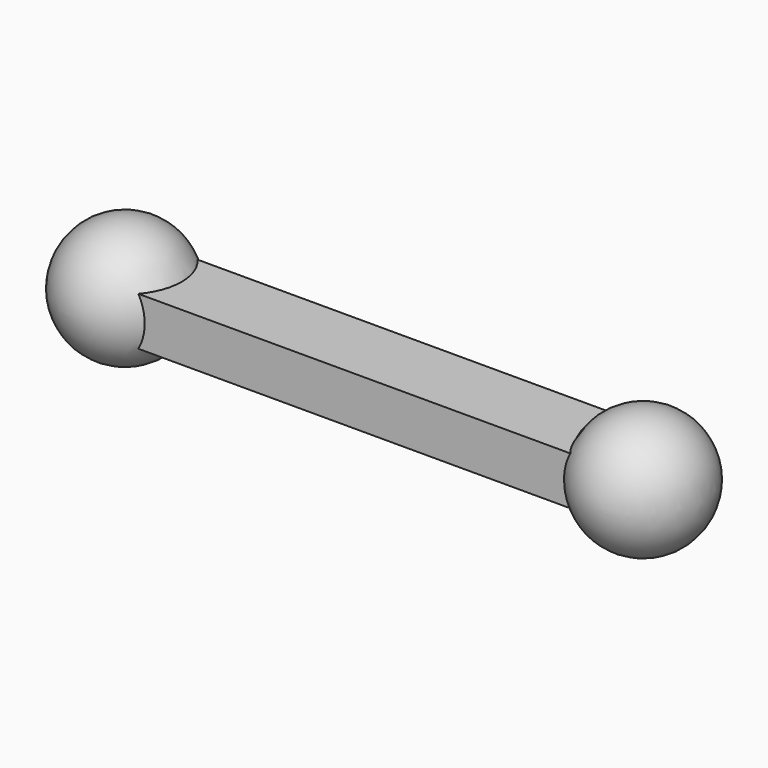
from build123d import *

# Parameters (mm, degrees)
PAD_DEPTH = 0.245


with BuildPart() as part:
    # Sketch → Pad (new body, symmetric)
    with BuildSketch(Plane.XY):
        with BuildLine():
            Line((0, 0.375), (5.25, 0.375))
            ThreePointArc((5.25, -0.375), (5.625, 0), (5.25, 0.375))
            Line((5.25, -0.375), (0, -0.375))
            ThreePointArc((0, 0.375), (-0.375, 0), (0, -0.375))
        make_face()
    extrude(amount=PAD_DEPTH, both=True)

    # Sketch001 → Revolution (revolve)
    with BuildSketch(Plane.XY):
        with BuildLine():
            Line((0, 0.625), (0, 0))
            Line((0, 0), (0, -0.625))
            ThreePointArc((0, 0.625), (-0.625, 0), (0, -0.625))
        make_face()
    revolve(axis=Axis((0, 0, 0), (0, -1, 0)))

    # Sketch002 → Revolution001 (revolve)
    with BuildSketch(Plane.XY):
        with BuildLine():
            ThreePointArc((5.25, -0.625), (5.875, 0), (5.25, 0.625))
            Line((5.25, 0.625), (5.25, 0))
            Line((5.25, 0), (5.25, -0.625))
        make_face()
    revolve(axis=Axis((5.25, 0, 0), (0, -1, 0)))


solid = part.part
